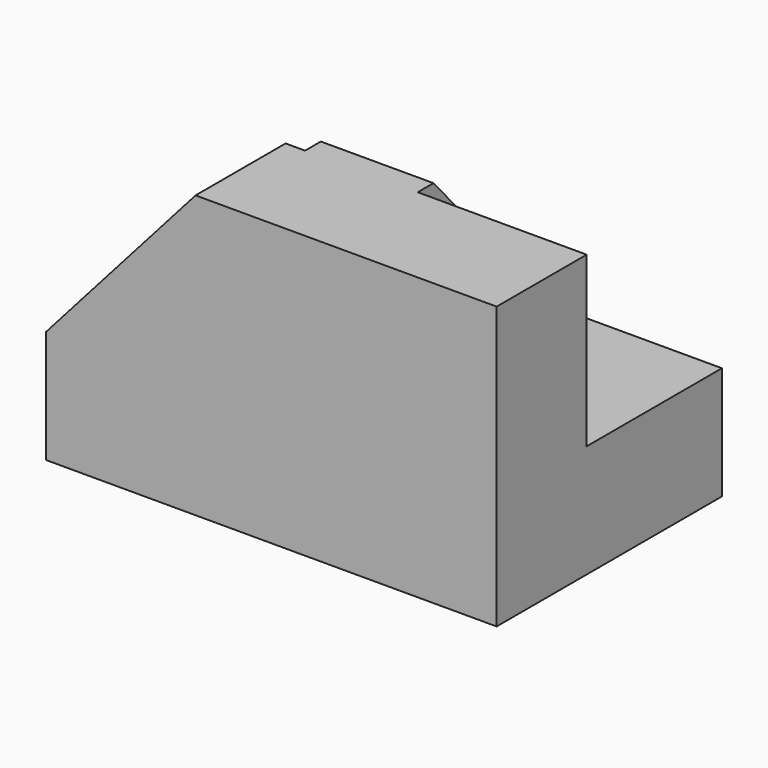
from build123d import *

# Parameters (mm, degrees)
F0_W     = 50.8
F0_H     = 31.75
F1_DEPTH = 31.75
F2_W     = 19.062214
F2_H     = 19.023106
F3_DEPTH = 19.05
F4_W     = 19.062212
F4_H     = 19.023106
F5_DEPTH = 19.05
F7_DEPTH = 25.4
F9_DEPTH = 25.4


with BuildPart() as f1:
    # F0 (on Front) → F1 (new body)
    with BuildSketch(Plane.XZ):
        with Locations((-33.25202, 44.606277)):
            Rectangle(F0_W, F0_H)
    extrude(amount=F1_DEPTH)

    # F2 (on face) → F3 (cut)
    with BuildSketch(Plane(origin=(-58.65202, 0, 0), x_dir=(0, -1, 0), z_dir=(-1, 0, 0))):
        with Locations((9.531107, 50.969724)):
            Rectangle(F2_W, F2_H)
    extrude(amount=-F3_DEPTH, mode=Mode.SUBTRACT)

    # F4 (on face) → F5 (cut)
    with BuildSketch(Plane.YZ.offset(-7.85202)):
        with Locations((-9.531106, 50.969724)):
            Rectangle(F4_W, F4_H)
    extrude(amount=-F5_DEPTH, mode=Mode.SUBTRACT)

    # F6 (on face) → F7 (cut)
    with BuildSketch(Plane(origin=(0, -19.062214, 0), x_dir=(-1, 0, 0), z_dir=(0, 1, 0))):
        Polygon((41.800097, 60.481277), (58.65202, 41.458171), (58.65202, 60.481277), align=None)
    extrude(amount=-F7_DEPTH, mode=Mode.SUBTRACT)

    # F8 (on face) → F9 (cut)
    with BuildSketch(Plane.YZ.offset(-26.90202)):
        Polygon((-16.839711, 60.481277), (0, 41.458171), (0, 60.481277), align=None)
    extrude(amount=-F9_DEPTH, mode=Mode.SUBTRACT)


solid = f1.part
